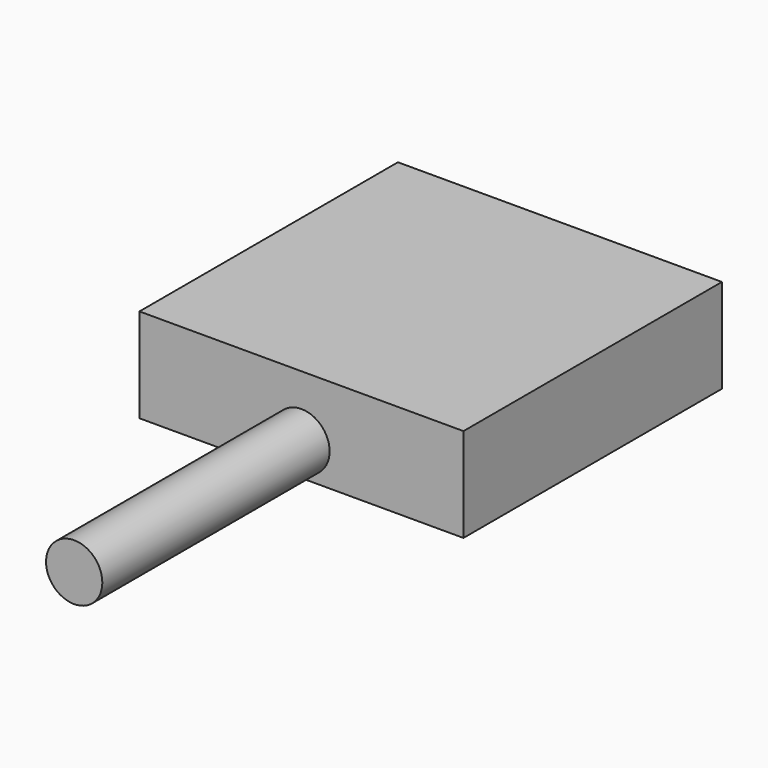
from build123d import *

# Parameters (mm, degrees)
F0_W     = 87.481856
F0_H     = 87.224066
F1_DEPTH = 25.4
F2_R     = 7.599099
F3_DEPTH = 76.708


with BuildPart() as f1:
    # F0 (on Top) → F1 (new body)
    with BuildSketch(Plane.XY):
        with Locations((8.380093, 6.452296)):
            Rectangle(F0_W, F0_H)
    extrude(amount=F1_DEPTH)


with BuildPart() as f3:
    # F2 (on face) → F3 (new body)
    with BuildSketch(Plane.XZ.offset(37.159737)):
        with Locations((8.380093, 8.8316)):
            Circle(F2_R)
    extrude(amount=F3_DEPTH)


solid = Compound([f1.part, f3.part])
